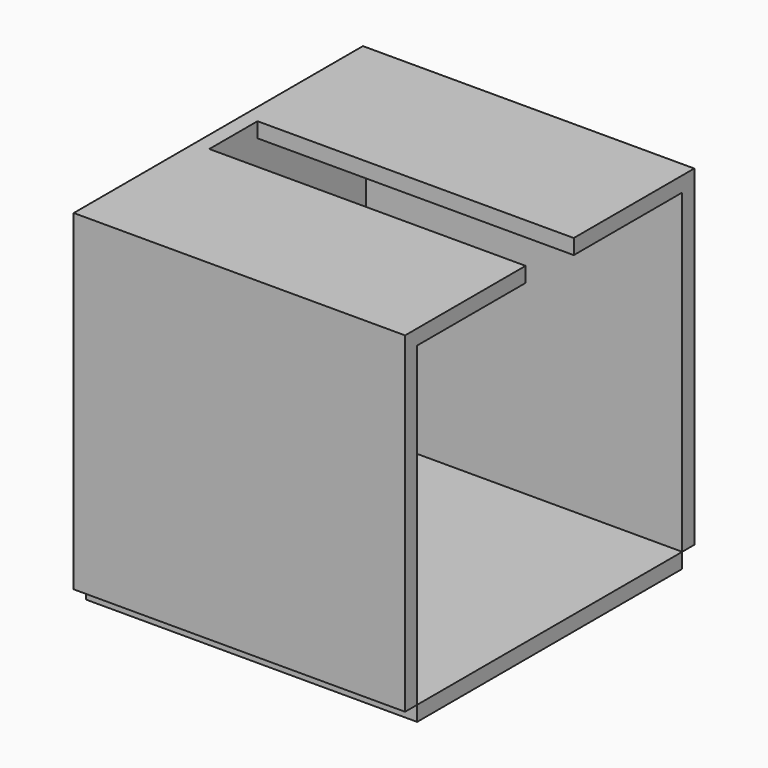
from build123d import *

# Parameters (mm, degrees)
BOX005_W     = 42
BOX005_H     = 8
BOX005_DEPTH = 2
BOX004_W     = 42
BOX004_H     = 44
BOX004_DEPTH = 2
BOX001_W     = 2
BOX001_H     = 44
BOX001_DEPTH = 44
BOX002_W     = 2
BOX002_H     = 44
BOX002_DEPTH = 44
BOX003_W     = 2
BOX003_H     = 44
BOX003_DEPTH = 44
BOX_W        = 2
BOX_H        = 44
BOX_DEPTH    = 44


with BuildPart() as cubo005:
    # Box005 → Box005 (new body)
    with BuildSketch(Plane(origin=(2, 18, 42), x_dir=(1, 0, 0), z_dir=(0, 0, 1))):
        with Locations((21, 4)):
            Rectangle(BOX005_W, BOX005_H)
    extrude(amount=BOX005_DEPTH)


with BuildPart() as cut:
    # Box004 → Box004 (new body)
    with BuildSketch(Plane(origin=(2, 0, 42), x_dir=(1, 0, 0), z_dir=(0, 0, 1))):
        with Locations((21, 22)):
            Rectangle(BOX004_W, BOX004_H)
    extrude(amount=BOX004_DEPTH)

    # Cut: cut Cubo005
    add(cubo005.part, mode=Mode.SUBTRACT)


with BuildPart() as cubo001:
    # Box001 → Box001 (new body)
    with BuildSketch(Plane(origin=(0, 0, 0), x_dir=(0, -1, 0), z_dir=(0, 0, 1))):
        with Locations((1, 22)):
            Rectangle(BOX001_W, BOX001_H)
    extrude(amount=BOX001_DEPTH)


with BuildPart() as cubo002:
    # Box002 → Box002 (new body)
    with BuildSketch(Plane(origin=(0, 46, 0), x_dir=(0, -1, 0), z_dir=(0, 0, 1))):
        with Locations((1, 22)):
            Rectangle(BOX002_W, BOX002_H)
    extrude(amount=BOX002_DEPTH)


with BuildPart() as cubo003:
    # Box003 → Box003 (new body)
    with BuildSketch(Plane(origin=(0, 0, 0), x_dir=(0, 0, -1), z_dir=(1, 0, 0))):
        with Locations((1, 22)):
            Rectangle(BOX003_W, BOX003_H)
    extrude(amount=BOX003_DEPTH)


with BuildPart() as fusion002:
    # Box → Box (new body)
    with BuildSketch(Plane.XY):
        with Locations((1, 22)):
            Rectangle(BOX_W, BOX_H)
    extrude(amount=BOX_DEPTH)

    # Fusion: union Cubo001, Cubo002, Cubo003
    add(cubo001.part)
    add(cubo002.part)
    add(cubo003.part)

    # Fusion002: union Cut
    add(cut.part)


solid = fusion002.part
